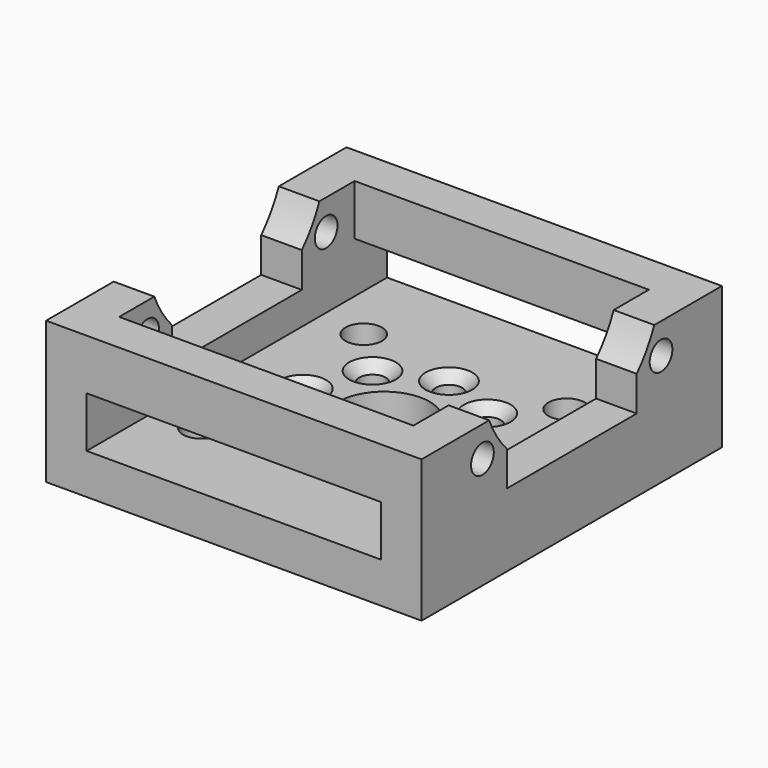
from build123d import *

# Parameters (mm, degrees)
SKETCH_W        = 37
SKETCH_H        = 37
PAD_DEPTH       = 4
SKETCH001_W     = 4
SKETCH001_H     = 37
PAD001_DEPTH    = 10
SKETCH002_R     = 1.4
POCKET_DEPTH    = 100
POCKET003_DEPTH = 100
SKETCH004_R     = 1.3
SKETCH004_R_2   = 4.5
POCKET007_DEPTH = 5
SKETCH008_R     = 1.8
POCKET009_DEPTH = 10
CHAMFER_SIZE    = 1
CHAMFER001_SIZE = 0.2
SKETCH009_W     = 29
SKETCH009_H     = 4
PAD002_DEPTH    = 10
SKETCH010_W     = 29
SKETCH010_H     = 5
POCKET010_DEPTH = 100


with BuildPart() as part:
    # Sketch → Pad (new body)
    with BuildSketch(Plane.XY):
        Rectangle(SKETCH_W, SKETCH_H)
    extrude(amount=PAD_DEPTH)

    # Sketch001 (on Face6 of Pad) → Pad001 (join)
    with BuildSketch(Plane.XY.offset(4)):
        with Locations((16.5, 0)):
            Rectangle(SKETCH001_W, SKETCH001_H)
        with Locations((-16.5, 0)):
            Rectangle(SKETCH001_W, SKETCH001_H)
    extrude(amount=PAD001_DEPTH)

    # Sketch002 (on Face13 of Pad001) → Pocket (cut)
    with BuildSketch(Plane.YZ.offset(18.5)):
        with Locations((-11, 11)):
            Circle(SKETCH002_R)
        with Locations((11, 11)):
            Circle(SKETCH002_R)
    extrude(amount=-POCKET_DEPTH, mode=Mode.SUBTRACT)

    # Sketch006 → Pocket003 (cut)
    with BuildSketch(Plane(origin=(-20, 0, 0), x_dir=(0, -1, 0), z_dir=(-1, 0, 0))):
        with BuildLine():
            ThreePointArc((8, 10.650166), (0, 29.2), (-8, 10.650166))
            Line((-8, 10.650166), (-8, 7.2))
            Line((-8, 7.2), (8, 7.2))
            Line((8, 7.2), (8, 10.650166))
        make_face()
    extrude(amount=-POCKET003_DEPTH, mode=Mode.SUBTRACT)

    # Sketch004 → Pocket007 (cut)
    with BuildSketch(Plane.XY.offset(4)):
        with Locations((0, 8)):
            Circle(SKETCH004_R)
        with Locations((8, 0)):
            Circle(SKETCH004_R)
        with Locations((0, -8)):
            Circle(SKETCH004_R)
        with Locations((-8, 0)):
            Circle(SKETCH004_R)
        Circle(SKETCH004_R_2)
        with Locations((5.656854, 5.656854)):
            Circle(SKETCH004_R)
        with Locations((-5.656854, 5.656854)):
            Circle(SKETCH004_R)
        with Locations((-5.656854, -5.656854)):
            Circle(SKETCH004_R)
        with Locations((5.656854, -5.656854)):
            Circle(SKETCH004_R)
    extrude(amount=-POCKET007_DEPTH, mode=Mode.SUBTRACT)

    # Sketch008 → Pocket009 (cut)
    with BuildSketch(Plane(origin=(0, 0, 0), x_dir=(1, 0, 0), z_dir=(0, 0, -1))):
        with Locations((10, 10)):
            Circle(SKETCH008_R)
        with Locations((-10, 10)):
            Circle(SKETCH008_R)
        with Locations((-10, -10)):
            Circle(SKETCH008_R)
        with Locations((10, -10)):
            Circle(SKETCH008_R)
    extrude(amount=-POCKET009_DEPTH, mode=Mode.SUBTRACT)

    # Chamfer
    chamfer_edges = [part.edges().sort_by_distance(p)[0] for p in [
        (-6.956854, -5.656854, 4),
        (-1.3, -8, 4),
        (4.356854, -5.656854, 4),
        (6.7, 0, 4),
        (4.356854, 5.656854, 4),
        (-1.3, 8, 4),
        (-6.956854, 5.656854, 4),
        (-9.3, 0, 4),
    ]]
    chamfer(chamfer_edges, length=CHAMFER_SIZE)

    # Chamfer001
    chamfer001_edges = [part.edges().sort_by_distance(p)[0] for p in [
        (-6.956854, -5.656854, 0),
        (-9.3, 0, 0),
        (-6.956854, 5.656854, 0),
        (-1.3, 8, 0),
        (4.356854, 5.656854, 0),
        (6.7, 0, 0),
        (4.356854, -5.656854, 0),
        (-1.3, -8, 0),
        (-11.8, -10, 0),
        (-11.8, 10, 0),
        (8.2, 10, 0),
        (8.2, -10, 0),
    ]]
    chamfer(chamfer001_edges, length=CHAMFER001_SIZE)

    # Sketch009 (on Face3 of Chamfer001) → Pad002 (join)
    with BuildSketch(Plane.XY.offset(4)):
        with Locations((0, 16.5)):
            Rectangle(SKETCH009_W, SKETCH009_H)
        with Locations((0, -16.5)):
            Rectangle(SKETCH009_W, SKETCH009_H)
    extrude(amount=PAD002_DEPTH)

    # Sketch010 (on Face69 of Pad002) → Pocket010 (cut)
    with BuildSketch(Plane.XZ.offset(18.5)):
        with Locations((0, 6.5)):
            Rectangle(SKETCH010_W, SKETCH010_H)
    extrude(amount=-POCKET010_DEPTH, mode=Mode.SUBTRACT)


solid = part.part
